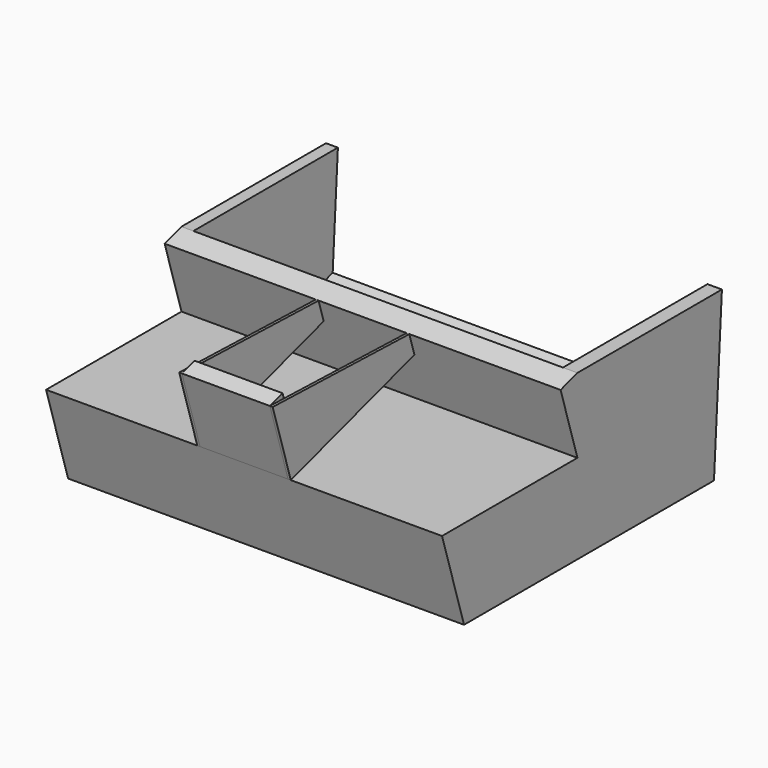
from build123d import *

# Parameters (mm, degrees)
F1_DEPTH  = 457.2
F3_W      = 853.4504771233
F3_H      = 418.8702180982
F4_DEPTH  = 355.6
F5_W      = 203.2
F5_H      = 177.8
F6_DEPTH  = 38.1
F5_W_2    = 6.35
F9_DEPTH  = 373.38
F11_DEPTH = 6.35
F13_DEPTH = 6.35


with BuildPart() as f1:
    # F0 (on Right) → F1 (new body, symmetric)
    with BuildSketch(Plane.YZ):
        Polygon((-2.4713186666, 180.750835103), (-51.0243952496, 165.8096586324), (-2.4655717202, 8.0121597376), (61.0344282798, -198.3384157401), (114.1853340847, -198.3384157401), align=None)
        Polygon((61.0344282798, -198.3384157401), (-2.4655717202, 8.0121597376), (-393.2840364218, 8.0121597376), (-329.7840364218, -198.3384157401), align=None)
        Polygon((414.6792432185, 180.750835103), (-2.4713186666, 180.750835103), (114.1853340847, -198.3384157401), (391.763212096, -198.3384157401), align=None)
    extrude(amount=F1_DEPTH, both=True)

    # F3 (on offset) → F4 (cut)
    with BuildSketch(Plane(origin=(0, -51.0243952496, 165.8096586324), x_dir=(1, 0, 0), z_dir=(0, -0.2941176471, 0.9557692241))):
        with Locations((-2.9565989971, 260.2170370519)):
            Rectangle(F3_W, F3_H)
    extrude(amount=-F4_DEPTH, mode=Mode.SUBTRACT)


with BuildPart() as f6:
    # F5 (on face) → F6 (new body)
    with BuildSketch(Plane(origin=(0, -357.0106390354, -109.8624296359), x_dir=(1, 0, 0), z_dir=(0, -0.9557692241, -0.2941176471))):
        with Locations((0, 212.2295511138)):
            Rectangle(F5_W, F5_H)
    extrude(amount=-F6_DEPTH)


with BuildPart() as f9:
    # F5 (on face) → F9 (new body)
    with BuildSketch(Plane(origin=(0, -357.0106390354, -109.8624296359), x_dir=(1, 0, 0), z_dir=(0, -0.9557692241, -0.2941176471))):
        with Locations((104.775, 212.2295511138)):
            Rectangle(F5_W_2, F5_H)
    extrude(amount=-F9_DEPTH)

    # F10 (on face) → F11 (cut)
    with BuildSketch(Plane.YZ.offset(107.95)):
        Polygon((-51.1852493659, 165.8146860492), (-51.0262735188, 165.8097952604), (-88.7130411838, 287.7655748369), align=None)
        Polygon((-445.5781540689, 177.9479277781), (-51.1852493659, 165.8146860492), (-88.7130411838, 287.7655748369), align=None)
    extrude(amount=-F11_DEPTH, mode=Mode.SUBTRACT)


with BuildPart() as f9b:
    # F5 (on face) → F9, piece 2 (new body)
    with BuildSketch(Plane(origin=(0, -357.0106390354, -109.8624296359), x_dir=(1, 0, 0), z_dir=(0, -0.9557692241, -0.2941176471))):
        with Locations((-104.775, 212.2295511138)):
            Rectangle(F5_W_2, F5_H)
    extrude(amount=-F9_DEPTH)

    # F12 (on face) → F13 (cut)
    with BuildSketch(Plane(origin=(-107.95, 0, 0), x_dir=(0, -1, 0), z_dir=(-1, 0, 0))):
        Polygon((88.7130411838, 287.7655748369), (51.2041607247, 165.8761406911), (445.5781540689, 177.9479277781), align=None)
    extrude(amount=-F13_DEPTH, mode=Mode.SUBTRACT)


solid = Compound([f1.part, f6.part, f9.part, f9b.part])
